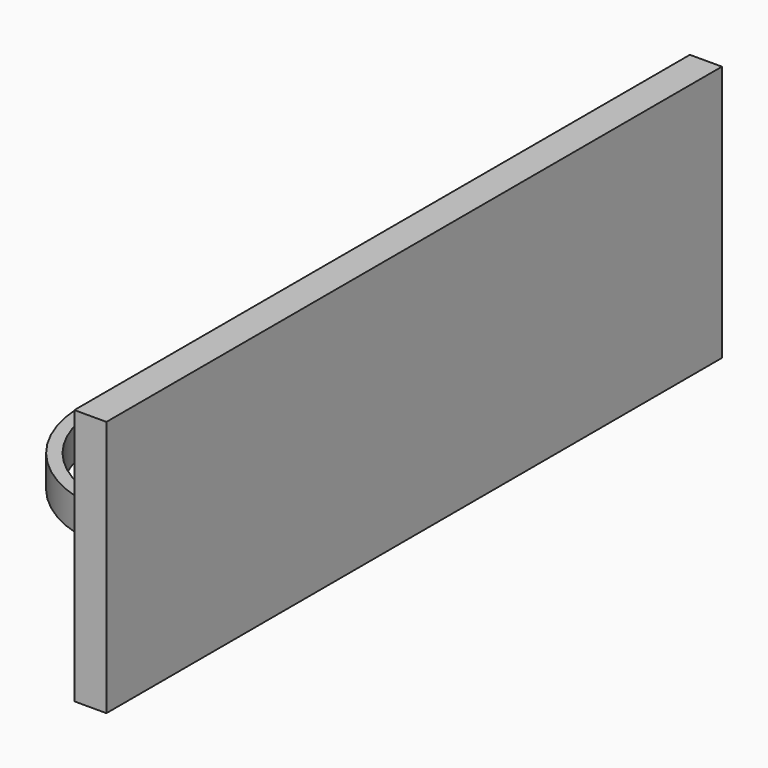
from build123d import *

# Parameters (mm, degrees)
BOX_W             = 10
BOX_H             = 10
BOX_DEPTH         = 10
BOX001_W          = 10
BOX001_H          = 240
BOX001_DEPTH      = 80
CYLINDER001_R     = 36
CYLINDER001_DEPTH = 10
CYLINDER_R        = 40
CYLINDER_DEPTH    = 10


with BuildPart() as cube:
    # Box → Box (new body)
    with BuildSketch(Plane(origin=(38, -5, 0), x_dir=(1, 0, 0), z_dir=(0, 0, 1))):
        with Locations((5, 5)):
            Rectangle(BOX_W, BOX_H)
    extrude(amount=BOX_DEPTH)


with BuildPart() as cube001:
    # Box001 → Box001 (new body)
    with BuildSketch(Plane(origin=(44, -108, 0), x_dir=(1, 0, 0), z_dir=(0, 0, 1))):
        with Locations((5, 120)):
            Rectangle(BOX001_W, BOX001_H)
    extrude(amount=BOX001_DEPTH)


with BuildPart() as cylinder001:
    # Cylinder001 → Cylinder001 (new body)
    with BuildSketch(Plane.XY):
        Circle(CYLINDER001_R)
    extrude(amount=CYLINDER001_DEPTH)


with BuildPart() as fusion:
    # Cylinder → Cylinder (new body)
    with BuildSketch(Plane.XY):
        Circle(CYLINDER_R)
    extrude(amount=CYLINDER_DEPTH)

    # Cut: cut Cylinder001
    add(cylinder001.part, mode=Mode.SUBTRACT)

    # Fusion: union Cube, Cube001
    add(cube.part)
    add(cube001.part)


solid = fusion.part
